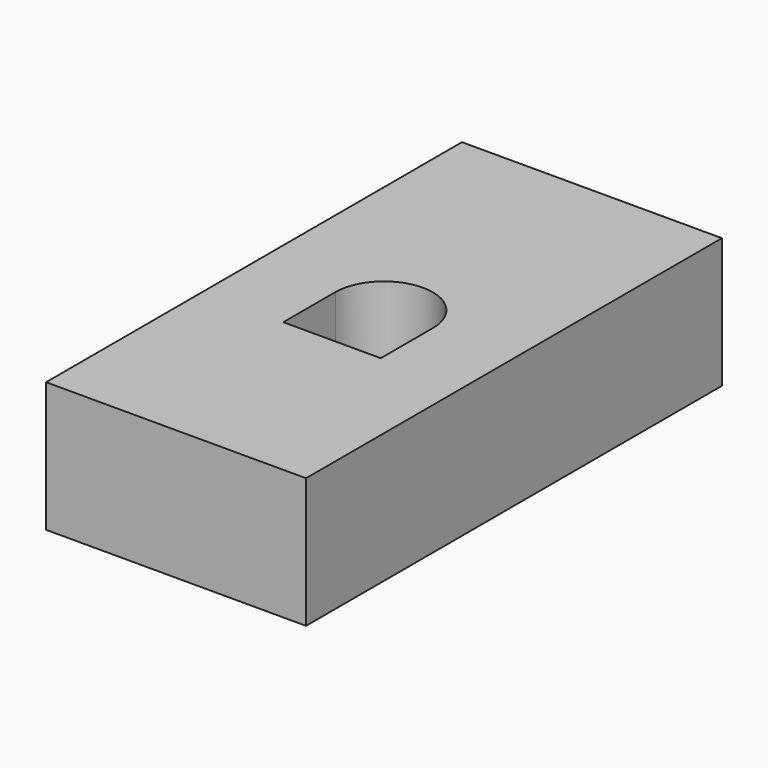
from build123d import *

# Parameters (mm, degrees)
F0_W     = 50.8
F0_H     = 25.4
F1_DEPTH = 101.6
F3_DEPTH = 25.401


with BuildPart() as f1:
    # F0 (on Front) → F1 (new body)
    with BuildSketch(Plane.XZ):
        with Locations((25.4, 12.7)):
            Rectangle(F0_W, F0_H)
    extrude(amount=F1_DEPTH)

    # F2 (on face) → F3 (cut, through all)
    with BuildSketch(Plane.XY.offset(25.4)):
        with BuildLine():
            Line((15.875, -50.8), (15.875, -63.5))
            Line((15.875, -63.5), (34.925, -63.5))
            Line((34.925, -63.5), (34.925, -50.8))
            ThreePointArc((34.925, -50.8), (25.4, -41.275), (15.875, -50.8))
        make_face()
    extrude(amount=-F3_DEPTH, mode=Mode.SUBTRACT)


solid = f1.part
